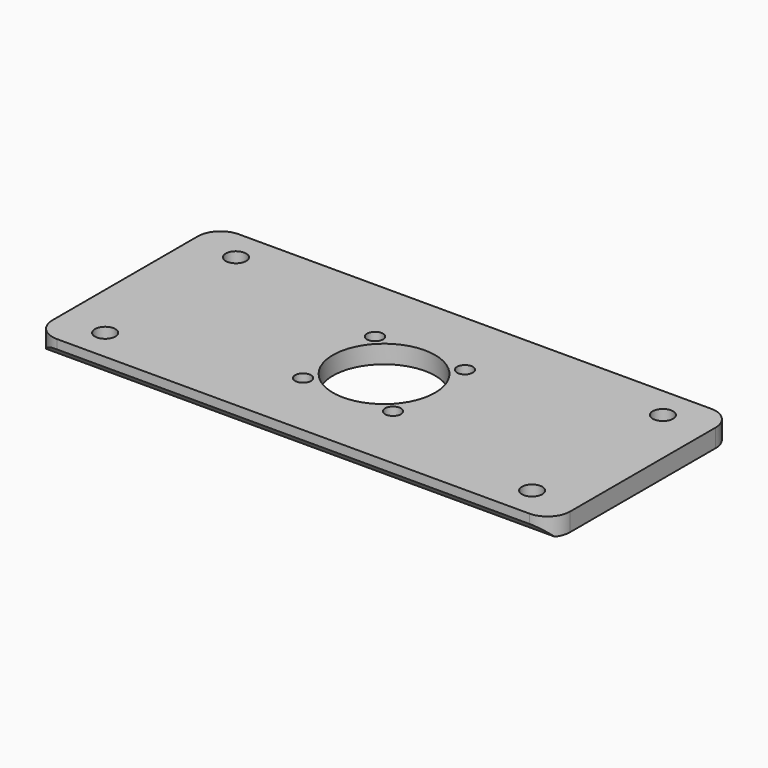
from build123d import *

# Parameters (mm, degrees)
SKETCH_W      = 114
SKETCH_H      = 50
PAD_DEPTH     = 4
SKETCH001_R   = 11.25
SKETCH001_R_2 = 2.25
SKETCH001_R_3 = 1.75
POCKET_DEPTH  = 4.001
CHAMFER_SIZE  = 2
FILLET_R      = 5


with BuildPart() as part:
    # Sketch → Pad (new body)
    with BuildSketch(Plane.XY):
        Rectangle(SKETCH_W, SKETCH_H)
    extrude(amount=PAD_DEPTH)

    # Sketch001 → Pocket (cut, through all)
    with BuildSketch(Plane.XY.offset(4)):
        Circle(SKETCH001_R)
        with Locations((-47, 18)):
            Circle(SKETCH001_R_2)
        with Locations((-47, -18)):
            Circle(SKETCH001_R_2)
        with Locations((47, 18)):
            Circle(SKETCH001_R_2)
        with Locations((47, -18)):
            Circle(SKETCH001_R_2)
        with Locations((-9.899495, 9.899495)):
            Circle(SKETCH001_R_3)
        with Locations((9.899495, 9.899495)):
            Circle(SKETCH001_R_3)
        with Locations((9.899495, -9.899495)):
            Circle(SKETCH001_R_3)
        with Locations((-9.899495, -9.899495)):
            Circle(SKETCH001_R_3)
    extrude(amount=-POCKET_DEPTH, mode=Mode.SUBTRACT)

    # Chamfer
    chamfer_edges = [part.edges().sort_by_distance(p)[0] for p in [
        (0, -25, 0),
    ]]
    chamfer(chamfer_edges, length=CHAMFER_SIZE)

    # Fillet
    fillet_edges = [part.edges().sort_by_distance(p)[0] for p in [
        (-57, -25, 3),
        (-57, 25, 2),
        (57, -25, 3),
        (57, 25, 2),
    ]]
    fillet(fillet_edges, radius=FILLET_R)


solid = part.part
